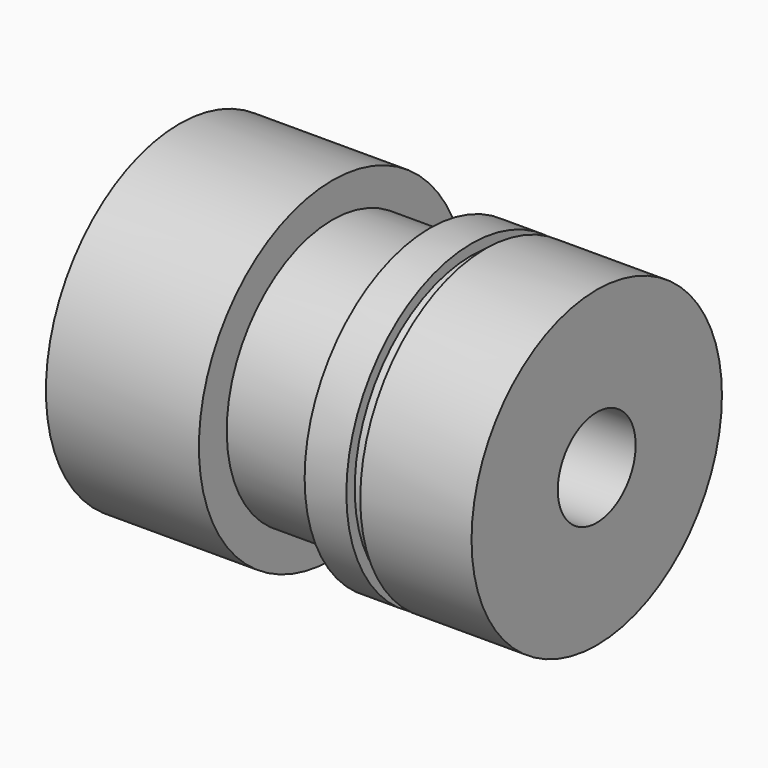
from build123d import *

# Parameters (mm, degrees)
F3_D     = 14
F3_DEPTH = 28
F3_TIP   = 4.2060243332


with BuildPart() as f1:
    # F0 (on Front) → F1 (revolve)
    with BuildSketch(Plane.XZ):
        Polygon((0, 24), (0, 0), (60, 0), (60, 22.5), (44, 22.5), (44, 21), (42, 21), (42, 22.5), (36, 22.5), (36, 19), (22, 19), (22, 24), align=None)
    revolve(axis=Axis((30, 0, 0), (-1, 0, 0)))

    # F3
    with Locations(Plane.YZ.offset(60)):
        with Locations((0, 0)):
            Hole(F3_D / 2, depth=F3_DEPTH)
            with Locations((0, 0, -(F3_DEPTH + F3_TIP / 2))):  # 118° drill point
                Cone(0, F3_D / 2, F3_TIP, mode=Mode.SUBTRACT)


solid = f1.part
